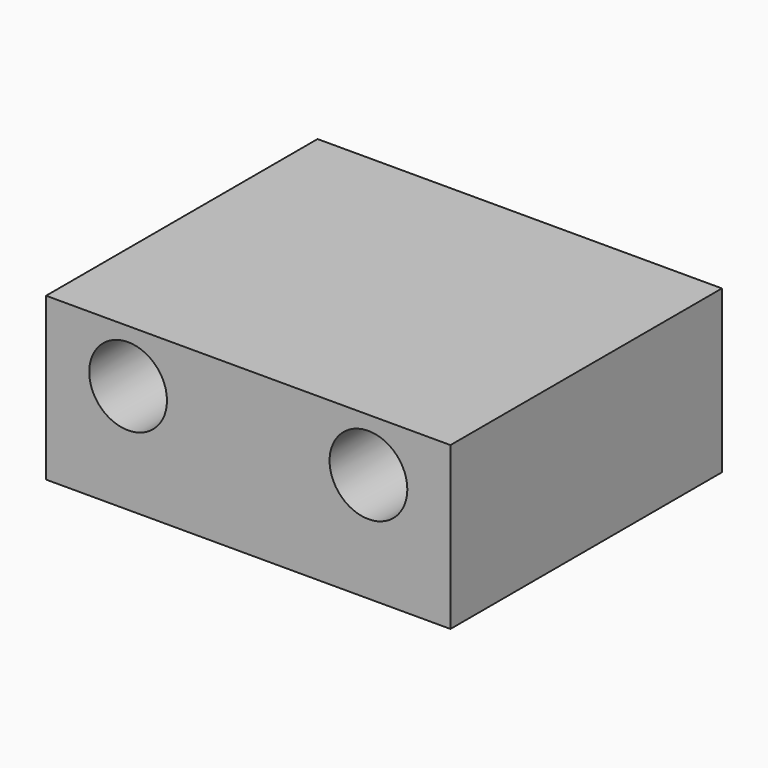
from build123d import *

# Parameters (mm, degrees)
SKETCH018_R     = 1.75
PAD009_DEPTH    = 20
SKETCH019_W     = 28.6
SKETCH019_H     = 11.45
SKETCH019_R     = 1.75
PAD010_DEPTH    = 4
SKETCH020_R     = 2.75
POCKET009_DEPTH = 8


with BuildPart() as part:
    # Sketch018 (on Face21 of Binder005) → Pad009 (new body)
    with BuildSketch(Plane.XZ.offset(-32.95)):
        Polygon((-0.55022, 13.05), (28.04978, 13.05), (28.04978, 1.6), (20.338297, 1.6), (20.338297, 3.6), (5.278297, 3.6), (5.278297, 1.6), (-0.55022, 1.6), align=None)
        with Locations((5.24978, 9.3)):
            Circle(SKETCH018_R, mode=Mode.SUBTRACT)
        with Locations((22.24978, 9.3)):
            Circle(SKETCH018_R, mode=Mode.SUBTRACT)
    extrude(amount=PAD009_DEPTH)

    # Sketch019 (on Face12 of Pad009) → Pad010 (join)
    with BuildSketch(Plane.XZ.offset(-12.95)):
        with Locations((13.74978, 7.325)):
            Rectangle(SKETCH019_W, SKETCH019_H)
        with Locations((5.24978, 9.3)):
            Circle(SKETCH019_R, mode=Mode.SUBTRACT)
        with Locations((22.24978, 9.3)):
            Circle(SKETCH019_R, mode=Mode.SUBTRACT)
    extrude(amount=PAD010_DEPTH)

    # Sketch020 (on Face1 of Pad010) → Pocket009 (cut)
    with BuildSketch(Plane.XZ.offset(-8.95)):
        with Locations((22.24978, 9.3)):
            Circle(SKETCH020_R)
        with Locations((5.24978, 9.3)):
            Circle(SKETCH020_R)
    extrude(amount=-POCKET009_DEPTH, mode=Mode.SUBTRACT)


solid = part.part
